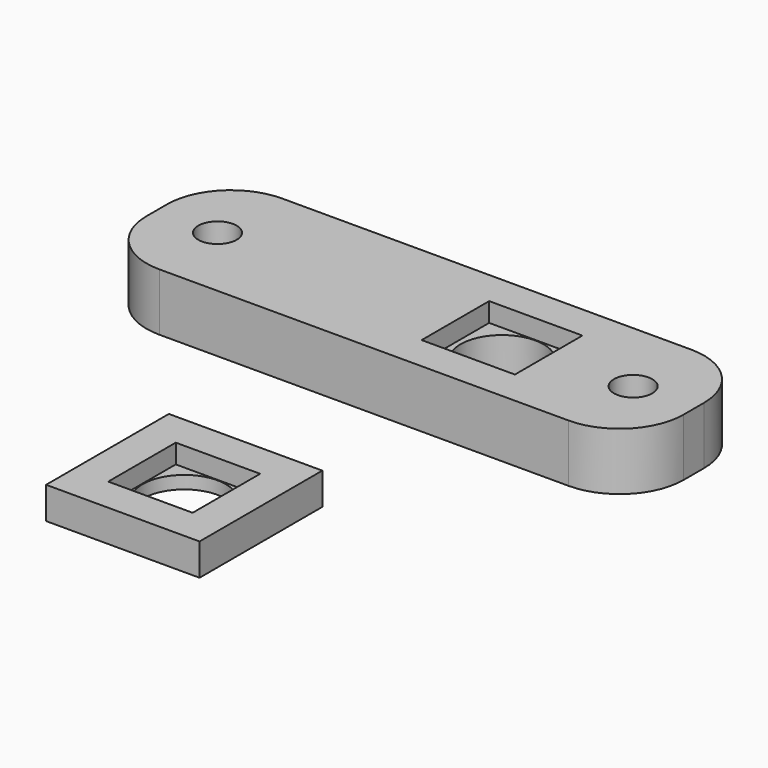
from build123d import *

# Parameters (mm, degrees)
F3_W     = 12
F3_H     = 12
F3_R     = 3.25
F4_DEPTH = 1
F5_W     = 12
F5_H     = 12
F5_W_2   = 6.6
F5_H_2   = 6.6
F6_DEPTH = 1.5
F7_W     = 42
F7_H     = 12
F7_R     = 1.5
F7_W_2   = 7.2937997878
F7_H_2   = 6.6
F8_DEPTH = 4.5
F7_R_2   = 3.25
F9_DEPTH = 3
F10_R    = 5


with BuildPart() as f4:
    # F3 (on Top) → F4 (new body)
    with BuildSketch(Plane.XY):
        Rectangle(F3_W, F3_H)
        Circle(F3_R, mode=Mode.SUBTRACT)
    extrude(amount=F4_DEPTH)

    # F5 (on face) → F6 (join)
    with BuildSketch(Plane.XY.offset(1)):
        Rectangle(F5_W, F5_H)
        Rectangle(F5_W_2, F5_H_2, mode=Mode.SUBTRACT)
    extrude(amount=F6_DEPTH)


with BuildPart() as f8:
    # F7 (on Top) → F8 (new body)
    with BuildSketch(Plane.XY):
        with Locations((0, 23.5665622275)):
            Rectangle(F7_W, F7_H)
        with Locations((-16.25, 23.5665622275)):
            Circle(F7_R, mode=Mode.SUBTRACT)
        with Locations((6, 23.5665622275)):
            Rectangle(F7_W_2, F7_H_2, mode=Mode.SUBTRACT)
        with Locations((16.25, 23.5665622275)):
            Circle(F7_R, mode=Mode.SUBTRACT)
    extrude(amount=F8_DEPTH)

    # F7 (on Top) → F9 (join)
    with BuildSketch(Plane.XY):
        with Locations((6, 23.5665622275)):
            Rectangle(F7_W_2, F7_H_2)
        with Locations((6, 23.5665622275)):
            Circle(F7_R_2, mode=Mode.SUBTRACT)
    extrude(amount=F9_DEPTH)

    # F10
    f10_edges = [f8.edges().sort_by_distance(p)[0] for p in [
        (21, 17.566562, 2.25),
        (-21, 17.566562, 2.25),
        (21, 29.566562, 2.25),
        (-21, 29.566562, 2.25),
    ]]
    fillet(f10_edges, radius=F10_R)


solid = Compound([f4.part, f8.part])
